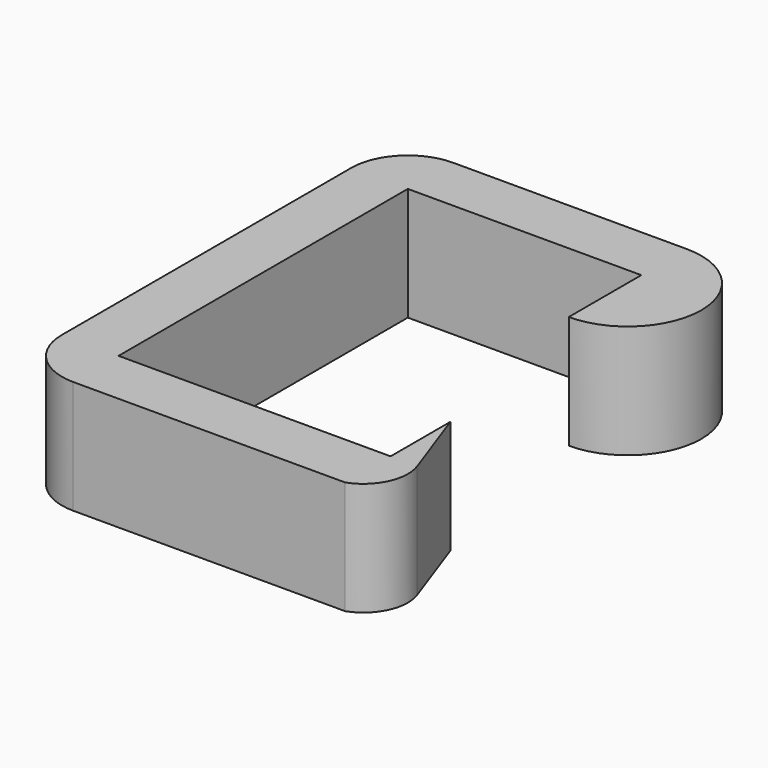
from build123d import *

# Parameters (mm, degrees)
F1_DEPTH = 10


with BuildPart() as f1:
    # F0 (on Top) → F1 (new body)
    with BuildSketch(Plane.XY):
        with BuildLine():
            Line((-16.407581, 20.193467), (4.192419, 20.193467))
            Line((4.192419, 20.193467), (4.192419, 12.193467))
            ThreePointArc((4.192419, 12.193467), (10.692419, 18.693467), (4.192419, 25.193468))
            Line((4.192419, 25.193468), (-16.407581, 25.193468))
            ThreePointArc((-16.407581, 25.193468), (-19.943115, 23.729001), (-21.407581, 20.193467))
            Line((-21.407581, 20.193467), (-21.407581, -11.706533))
            ThreePointArc((-21.407581, -11.706533), (-19.943115, -15.242067), (-16.407581, -16.706534))
            Line((-16.407581, -16.706534), (7.592419, -16.706534))
            ThreePointArc((7.592419, -16.706534), (9.796681, -14.690292), (9.942248, -11.706533))
            Line((9.942248, -11.706533), (7.592419, -5.102277))
            Line((7.592419, -5.102277), (7.592419, -11.706533))
            Line((7.592419, -11.706533), (-16.407581, -11.706533))
            Line((-16.407581, -11.706533), (-16.407581, 20.193467))
        make_face()
    extrude(amount=F1_DEPTH)


solid = f1.part
